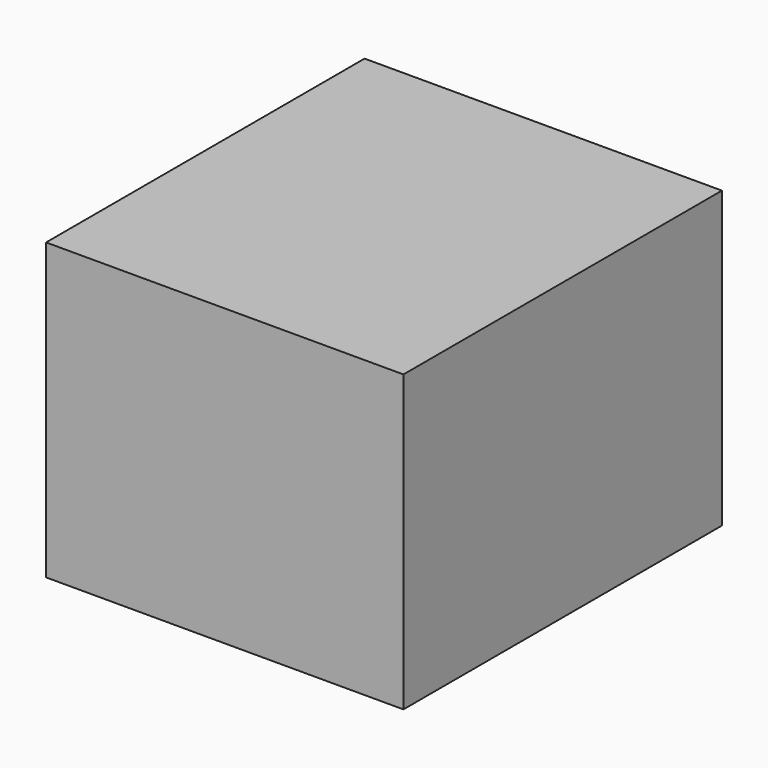
from build123d import *

# Parameters (mm, degrees)
F0_W       = 76.1181116104
F0_H       = 56.3871376216
F1_DEPTH   = 67.818
F2_W       = 17.9207939655
F2_H       = 17.2872282565
F3_DEPTH   = 66.802
F4_T       = -2.54
F5_W       = 17.5273697823
F5_H       = 13.1161464378
F1_FACE2_W = 76.1181116104
F1_FACE2_H = 56.3871376216
F6_DEPTH   = 0.508


with BuildPart() as f1:
    # F0 (on Right) → F1 (new body)
    with BuildSketch(Plane.YZ):
        with Locations((38.0590558052, 28.1935688108)):
            Rectangle(F0_W, F0_H)
    extrude(amount=F1_DEPTH)

    # F2 (on face) → F3 (join)
    with BuildSketch(Plane.XZ):
        with Locations((33.3073316142, 8.6436141282)):
            Rectangle(F2_W, F2_H)
    extrude(amount=-F3_DEPTH)

    # F4
    f4_openings = [f1.faces().sort_by_distance(p)[0] for p in [
        (33.909, 38.059056, 0),
    ]]
    offset(amount=F4_T, openings=f4_openings)

    # F5 (on face) + F1_face2 (on face) → F6 (join)
    with BuildSketch(Plane.YZ.offset(67.818)):
        with Locations((35.2515848354, 6.5580732189)):
            Rectangle(F5_W, F5_H)
    with BuildSketch(Plane(origin=(0, 38.0590558052, 28.1935688108), x_dir=(0, 1, 0), z_dir=(-1, 0, 0))):
        Rectangle(F1_FACE2_W, F1_FACE2_H)
    extrude(amount=-F6_DEPTH, dir=(1, 0, 0))


solid = f1.part
